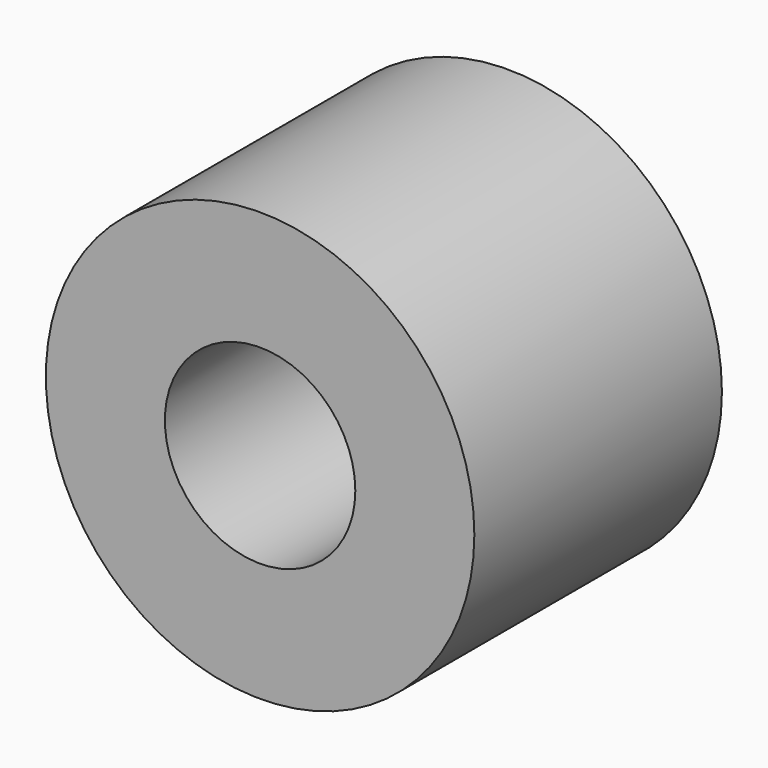
from build123d import *

# Parameters (mm, degrees)
CYLINDER365_R          = 0.4
CYLINDER365_DEPTH      = 1.3
CYLINDER391_R          = 0.9
CYLINDER391_DEPTH      = 1.3
CUT188_PLACEMENT_ANGLE = 90


with BuildPart() as cylinder365:
    # Cylinder365 → Cylinder365 (new body)
    with BuildSketch(Plane.XY):
        Circle(CYLINDER365_R)
    extrude(amount=CYLINDER365_DEPTH)


with BuildPart() as contact009:
    # Cylinder391 → Cylinder391 (new body)
    with BuildSketch(Plane.XY):
        Circle(CYLINDER391_R)
    extrude(amount=CYLINDER391_DEPTH)

    # Cut188: cut Cylinder365
    add(cylinder365.part, mode=Mode.SUBTRACT)


with BuildPart() as contact009_1:
    # Cut188 placement: moved
    add(contact009.part.moved(Location((-17.16, 1.3, -17))).rotate(Axis((-17.16, 1.3, -17), (1, 0, 0)), CUT188_PLACEMENT_ANGLE))


solid = contact009_1.part
